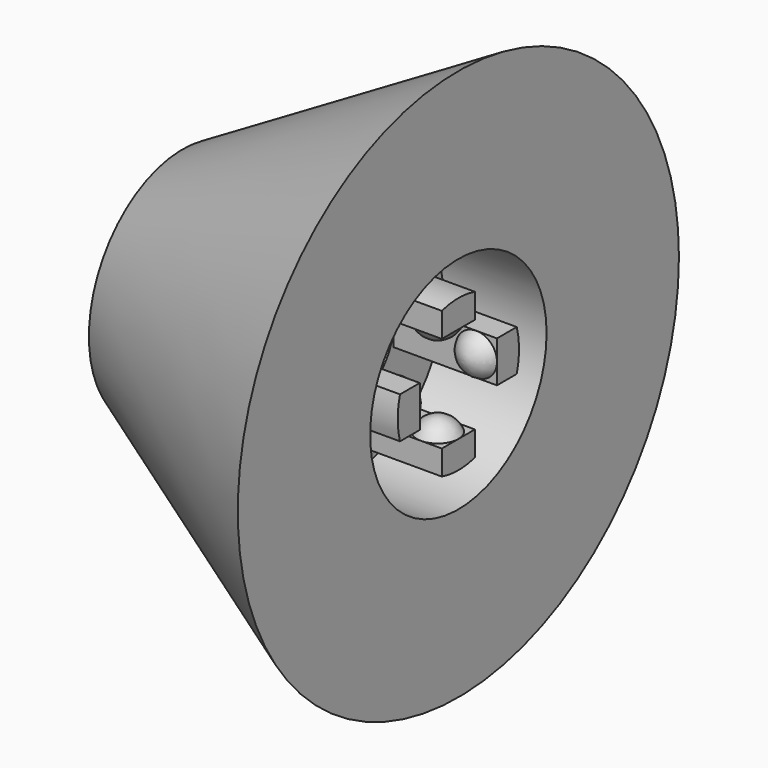
from build123d import *

# Parameters (mm, degrees)
POCKET_DEPTH = 7.5
ARRAY_COUNT  = 4


with BuildPart() as body:
    # Sketch → Revolution (revolve)
    with BuildSketch(Plane.XY):
        Polygon((0, 20), (0, 8), (-7.5, 8), (-7.5, 5.5), (0, 5.5), (0, 3.5), (-20, 3.5), (-20, 8.5), align=None)
    revolve(axis=Axis((0, 0, 0), (1, 0, 0)))

    # Sketch001 → Pocket (cut)
    with BuildSketch(Plane.YZ):
        Polygon((-1.5, 3.5), (1.5, 3.5), (1.5, 6.278175), (6.278175, 1.5), (3.5, 1.5), (3.5, -1.5), (6.278175, -1.5), (1.5, -6.278175), (1.5, -3.5), (-1.5, -3.5), (-1.5, -6.278175), (-6.278175, -1.5), (-3.5, -1.5), (-3.5, 1.5), (-6.278175, 1.5), (-1.5, 6.278175), align=None)
    extrude(amount=-POCKET_DEPTH, mode=Mode.SUBTRACT)


with BuildPart() as array:
    # Sphere → Sphere (revolve)
    with BuildSketch(Plane(origin=(-1.5, 0, -4.125), x_dir=(1, 0, 0), z_dir=(0, -1, 0))):
        with BuildLine():
            ThreePointArc((1.5, 0.625), (0.901388, 1.352082), (0, 1.625))
            Line((0, 1.625), (0, 0.625))
            Line((0, 0.625), (1.5, 0.625))
        make_face()
    revolve(axis=Axis((-1.5, 0, -4.125), (0, 0, 1)))

    # Array: Array ×4 about axis
    array_axis = Axis((0, 0, 0), (1, 0, 0))


with BuildPart() as array_1:
    add(array.part)
    for i in range(1, ARRAY_COUNT):
        add(array.part.rotate(array_axis, i * 360 / ARRAY_COUNT))


solid = Compound([body.part, array_1.part])
